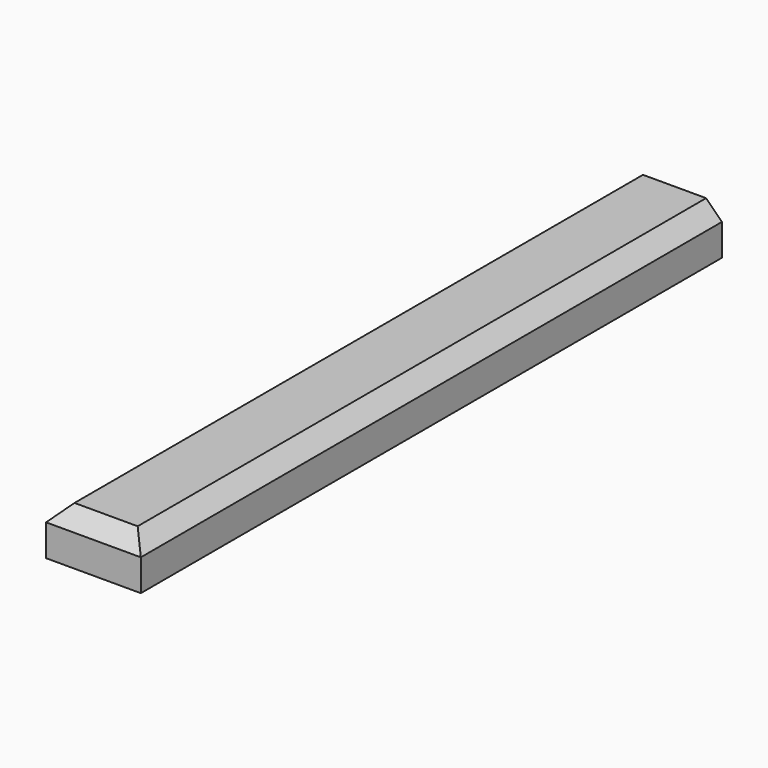
from build123d import *

# Parameters (mm, degrees)
F0_W     = 76.2
F0_H     = 584.2
F1_DEPTH = 38.1
F2_SIZE  = 12.7


with BuildPart() as f1:
    # F0 (on Top) → F1 (new body)
    with BuildSketch(Plane.XY):
        Rectangle(F0_W, F0_H)
    extrude(amount=F1_DEPTH)

    # F2
    f2_edges = [f1.edges().sort_by_distance(p)[0] for p in [
        (0, -292.1, 38.1),
        (38.1, 0, 38.1),
        (-38.1, 0, 38.1),
    ]]
    chamfer(f2_edges, length=F2_SIZE)


solid = f1.part
